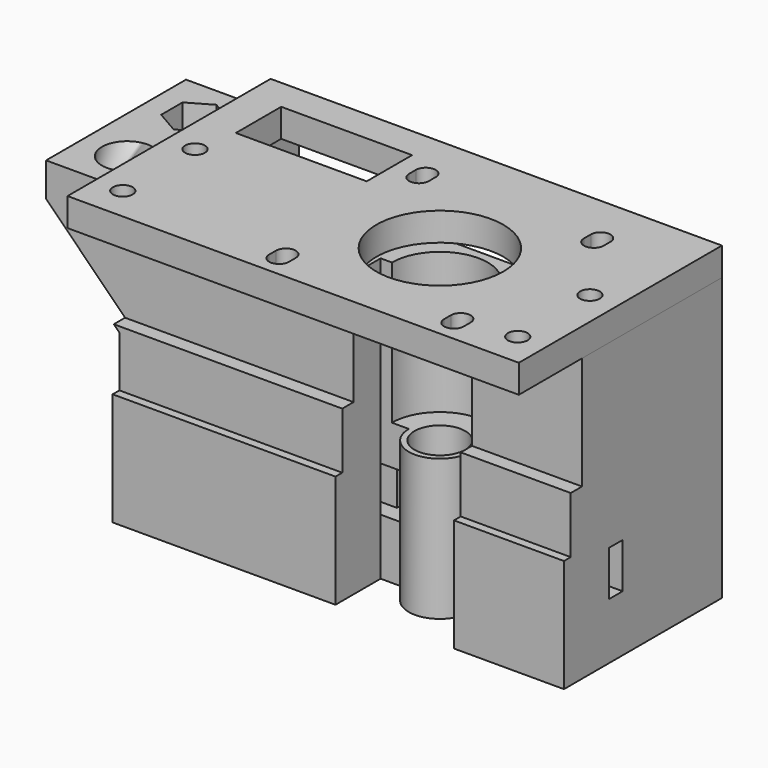
from build123d import *

# Parameters (mm, degrees)
SKETCH_W             = 80
SKETCH_H             = 35
PAD_DEPTH            = 50
SKETCH002_R          = 4.5
POCKET_DEPTH         = 50.001
SKETCH015_R          = 8.5
POCKET001_DEPTH      = 25
SKETCH004_W          = 70
SKETCH004_H          = 57
POCKET002_DEPTH      = 15
SKETCH005_R          = 1.4
SKETCH005_W          = 58
SKETCH005_H          = 11.5
POCKET003_DEPTH      = 5
SKETCH006_W          = 3
SKETCH006_H          = 8
POCKET004_DEPTH      = 80.001
SKETCH007_W          = 5
SKETCH007_H          = 8
POCKET005_DEPTH      = 10
PAD002_DEPTH         = 35
SKETCH009_R          = 4.5
POCKET006_DEPTH      = 50.001
SKETCH013_W          = 9
SKETCH013_H          = 5.461895
POCKET007_DEPTH      = 5
POCKET007_DEPTH_BACK = -100
SKETCH014_W          = 12.39777
SKETCH014_H          = 8.982672
PAD003_DEPTH         = 0.3
POCKET008_DEPTH      = 5
POCKET009_DEPTH      = 95.001
SKETCH018_R          = 1.4
POCKET010_DEPTH      = 10
POCKET011_DEPTH      = 50.001
SKETCH021_W          = 4
SKETCH021_H          = 8
POCKET012_DEPTH      = 22.001
SKETCH019_R          = 2.4
POCKET013_DEPTH      = 11
SKETCH024_R          = 1.4
POCKET014_DEPTH      = 9
SKETCH025_R          = 1.4
POCKET015_DEPTH      = 5
SKETCH003_W          = 80
SKETCH003_H          = 45
SKETCH003_R          = 11.25
SKETCH003_R_2        = 1.75
SKETCH003_W_2        = 23.197206
SKETCH003_H_2        = 10.052034
PAD001_DEPTH         = 5


with BuildPart() as block1:
    # Sketch → Pad (new body)
    with BuildSketch(Plane.XY):
        with Locations((0, 17.5)):
            Rectangle(SKETCH_W, SKETCH_H)
    extrude(amount=PAD_DEPTH)

    # Sketch002 → Pocket (cut, through all)
    with BuildSketch(Plane.XY.offset(50)):
        with Locations((10, 10)):
            Circle(SKETCH002_R)
    extrude(amount=-POCKET_DEPTH, mode=Mode.SUBTRACT)

    # Sketch015 (on Face5 of Pocket) → Pocket001 (cut)
    with BuildSketch(Plane.XY.offset(50)):
        with Locations((10, 10)):
            Circle(SKETCH015_R)
    extrude(amount=-POCKET001_DEPTH, mode=Mode.SUBTRACT)

    # Sketch004 → Pocket002 (cut)
    with BuildSketch(Plane(origin=(0, 35, 0), x_dir=(-1, 0, 0), z_dir=(0, 1, 0))):
        with Locations((0, 31.5)):
            Rectangle(SKETCH004_W, SKETCH004_H)
    extrude(amount=-POCKET002_DEPTH, mode=Mode.SUBTRACT)

    # Sketch005 → Pocket003 (cut)
    with BuildSketch(Plane.XY.offset(3)):
        with Locations((-31.75, 27.25)):
            Circle(SKETCH005_R)
        with Locations((31.75, 27.25)):
            Circle(SKETCH005_R)
        with Locations((0, 27.25)):
            Rectangle(SKETCH005_W, SKETCH005_H)
    extrude(amount=-POCKET003_DEPTH, mode=Mode.SUBTRACT)

    # Sketch006 → Pocket004 (cut, through all)
    with BuildSketch(Plane(origin=(-40, 0, 0), x_dir=(0, -1, 0), z_dir=(-1, 0, 0))):
        with Locations((-11.5, 14)):
            Rectangle(SKETCH006_W, SKETCH006_H)
    extrude(amount=-POCKET004_DEPTH, mode=Mode.SUBTRACT)

    # Sketch007 → Pocket005 (cut)
    with BuildSketch(Plane(origin=(0, 20, 0), x_dir=(-1, 0, 0), z_dir=(0, 1, 0))):
        with Locations((-32.5, 14)):
            Rectangle(SKETCH007_W, SKETCH007_H)
        with Locations((32.5, 14)):
            Rectangle(SKETCH007_W, SKETCH007_H)
    extrude(amount=-POCKET005_DEPTH, mode=Mode.SUBTRACT)

    # Sketch008 → Pad002 (join)
    with BuildSketch(Plane(origin=(0, 35, 0), x_dir=(-1, 0, 0), z_dir=(0, 1, 0))):
        Polygon((40, 29), (55, 44), (55, 50), (40, 50), align=None)
    extrude(amount=-PAD002_DEPTH)

    # Sketch009 → Pocket006 (cut, through all)
    with BuildSketch(Plane.XY.offset(50)):
        with Locations((-47, 12)):
            Circle(SKETCH009_R)
        Polygon((-42.9, 24.632864), (-42.9, 29.367136), (-47, 31.734272), (-51.1, 29.367136), (-51.1, 24.632864), (-47, 22.265728), align=None)
    extrude(amount=-POCKET006_DEPTH, mode=Mode.SUBTRACT)

    # Sketch013 → Pocket007 (cut, two sides)
    with BuildSketch(Plane(origin=(-52, 0, 0), x_dir=(0, -1, 0), z_dir=(-1, 0, 0))) as pocket007_sk:
        with Locations((-12, 39.112016)):
            Rectangle(SKETCH013_W, SKETCH013_H)
    extrude(amount=-POCKET007_DEPTH, mode=Mode.SUBTRACT)
    extrude(pocket007_sk.sketch, amount=-POCKET007_DEPTH_BACK, mode=Mode.SUBTRACT)

    # Sketch014 → Pad003 (join)
    with BuildSketch(Plane(origin=(0, 0, 41.900547), x_dir=(1, 0, 0), z_dir=(0, 0, -1))):
        with Locations((-46.642996, -12.007565)):
            Rectangle(SKETCH014_W, SKETCH014_H)
    extrude(amount=-PAD003_DEPTH)

    # Sketch012 → Pocket008 (cut)
    with BuildSketch(Plane(origin=(-40, 0, 0), x_dir=(0, -1, 0), z_dir=(-1, 0, 0))):
        Polygon((-26.973315, 16), (-22.973315, 17.656854), (-22.973315, 26.656854), (-24.79058, 28.474119), (-29.156051, 28.474119), (-30.973315, 26.656854), (-30.973315, 17.656854), align=None)
    extrude(amount=-POCKET008_DEPTH, mode=Mode.SUBTRACT)

    # Sketch017 (on Face3 of Pocket008) → Pocket009 (cut, through all)
    with BuildSketch(Plane.YZ.offset(40)):
        Polygon((4, 53.2), (4, 30), (1.5, 30), (1.5, 20), (-2.11, 20), (-2.11, 61.28), align=None)
    extrude(amount=-POCKET009_DEPTH, mode=Mode.SUBTRACT)

    # Sketch018 (on Face4 of Pocket009) → Pocket010 (cut)
    with BuildSketch(Plane.XY.offset(50)):
        with Locations((-35, 12)):
            Circle(SKETCH018_R)
        with Locations((35, 12)):
            Circle(SKETCH018_R)
    extrude(amount=-POCKET010_DEPTH, mode=Mode.SUBTRACT)

    # Sketch020 (on Face2 of Pocket010) → Pocket011 (cut, through all)
    with BuildSketch(Plane(origin=(0, 0, 0), x_dir=(1, 0, 0), z_dir=(0, 0, -1))):
        with BuildLine():
            ThreePointArc((15.5, -10), (10, -4.5), (4.5, -10))
            Line((4.5, -10), (-0.5, -10))
            Line((-0.5, -10), (-0.5, 2.44))
            Line((-0.5, 2.44), (20.5, 2.44))
            Line((20.5, -10), (20.5, 2.44))
            Line((15.5, -10), (20.5, -10))
        make_face()
    extrude(amount=-POCKET011_DEPTH, mode=Mode.SUBTRACT)

    # Sketch021 (on Face67 of Pocket011) → Pocket012 (cut, through all)
    with BuildSketch(Plane.XZ.offset(-13)):
        with Locations((18, 14)):
            Rectangle(SKETCH021_W, SKETCH021_H)
        with Locations((2, 14)):
            Rectangle(SKETCH021_W, SKETCH021_H)
    extrude(amount=-POCKET012_DEPTH, mode=Mode.SUBTRACT)

    # Sketch019 → Pocket013 (cut)
    with BuildSketch(Plane(origin=(0, 0, 0), x_dir=(1, 0, 0), z_dir=(0, 0, -1))):
        with Locations((-30, -5)):
            Circle(SKETCH019_R)
        with Locations((30, -5)):
            Circle(SKETCH019_R)
    extrude(amount=-POCKET013_DEPTH, mode=Mode.SUBTRACT)

    # Sketch024 → Pocket014 (cut)
    with BuildSketch(Plane(origin=(0, 20, 0), x_dir=(-1, 0, 0), z_dir=(0, 1, 0))):
        with Locations((27.161602, 15.480883)):
            Circle(SKETCH024_R)
    extrude(amount=-POCKET014_DEPTH, mode=Mode.SUBTRACT)

    # Sketch025 → Pocket015 (cut)
    with BuildSketch(Plane(origin=(0, 35, 0), x_dir=(-1, 0, 0), z_dir=(0, 1, 0))):
        with Locations((-37.5, 40)):
            Circle(SKETCH025_R)
        with Locations((37.5, 10)):
            Circle(SKETCH025_R)
    extrude(amount=-POCKET015_DEPTH, mode=Mode.SUBTRACT)


with BuildPart() as stepperbase:
    # Sketch003 → Pad001 (new body)
    with BuildSketch(Plane.XY):
        with Locations((0, 12.5)):
            Rectangle(SKETCH003_W, SKETCH003_H)
        with Locations((10, 10)):
            Circle(SKETCH003_R, mode=Mode.SUBTRACT)
        with Locations((-35, 12)):
            Circle(SKETCH003_R_2, mode=Mode.SUBTRACT)
        with Locations((35, 12)):
            Circle(SKETCH003_R_2, mode=Mode.SUBTRACT)
        with Locations((-35, -4)):
            Circle(SKETCH003_R_2, mode=Mode.SUBTRACT)
        with Locations((35, -4)):
            Circle(SKETCH003_R_2, mode=Mode.SUBTRACT)
        with BuildLine():
            ThreePointArc((27.25, 26.25), (25.5, 28), (23.75, 26.25))
            Line((23.75, 26.25), (23.75, 24.75))
            ThreePointArc((23.75, 24.75), (25.5, 23), (27.25, 24.75))
            Line((27.25, 26.25), (27.25, 24.75))
        make_face(mode=Mode.SUBTRACT)
        with BuildLine():
            ThreePointArc((-3.75, 26.25), (-5.5, 28), (-7.25, 26.25))
            Line((-7.25, 26.25), (-7.25, 24.75))
            ThreePointArc((-7.25, 24.75), (-5.5, 23), (-3.75, 24.75))
            Line((-3.75, 26.25), (-3.75, 24.75))
        make_face(mode=Mode.SUBTRACT)
        with BuildLine():
            ThreePointArc((-3.75, -4.75), (-5.5, -3), (-7.25, -4.75))
            Line((-7.25, -4.75), (-7.25, -6.25))
            ThreePointArc((-7.25, -6.25), (-5.5, -8), (-3.75, -6.25))
            Line((-3.75, -4.75), (-3.75, -6.25))
        make_face(mode=Mode.SUBTRACT)
        with BuildLine():
            ThreePointArc((27.25, -4.75), (25.5, -3), (23.75, -4.75))
            Line((23.75, -4.75), (23.75, -6.25))
            ThreePointArc((23.75, -6.25), (25.5, -8), (27.25, -6.25))
            Line((27.25, -4.75), (27.25, -6.25))
        make_face(mode=Mode.SUBTRACT)
        with Locations((-22.020395, 24.344841)):
            Rectangle(SKETCH003_W_2, SKETCH003_H_2, mode=Mode.SUBTRACT)
    extrude(amount=PAD001_DEPTH)


with BuildPart() as stepperbase_1:
    # Body001 placement: moved
    add(stepperbase.part.moved(Location((0, 0, 50))))


solid = Compound([block1.part, stepperbase_1.part])
